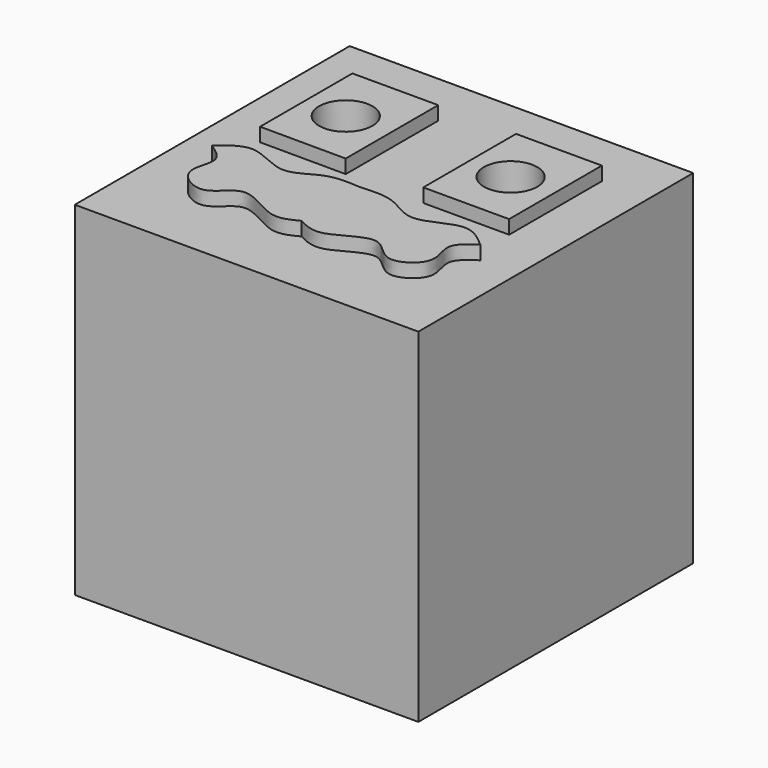
from build123d import *

# Parameters (mm, degrees)
F0_W     = 127
F0_H     = 127
F1_DEPTH = 127
F2_W     = 31.7266828096
F2_H     = 42.8551162527
F3_DEPTH = 5.08
F6_R     = 9.8569317774
F7_DEPTH = 165.1


with BuildPart() as f1:
    # F0 (on Top) → F1 (new body)
    with BuildSketch(Plane.XY):
        with Locations((0.5035735936, -0.4498548806)):
            Rectangle(F0_W, F0_H)
    extrude(amount=F1_DEPTH)

    # F2 (on face) → F3 (join)
    with BuildSketch(Plane.XY.offset(127)):
        Polygon((-45.6073767898, -0.0615948727), (-13.8806939801, -0.1739759996), (-13.8806939801, 42.5792373717), (-45.6073767898, 42.5792373717), align=None)
        with Locations((30.7511825722, 21.1516792453)):
            Rectangle(F2_W, F2_H)
        with BuildLine():
            add(Edge.make_bspline(
                [(50.1263291183, -17.9500691593), (46.7932820736, -15.0577623363), (39.6901265176, -8.8938813577), (24.3847915396, -20.6711745873), (13.3519348493, -10.6155139904), (4.7829499351, -11.2382657266), (0.5035735936, -11.5492697805)],
                knots=[0, 0, 0, 0, 0.2398997898, 0.5112575675, 0.7559205876, 1, 1, 1, 1], degree=3))
            Line((0.5035735936, -11.5492697805), (0.5035735936, -38.543947041))
            add(Edge.make_bspline(
                [(50.1263291183, -17.9500691593), (47.1905685422, -19.9119433554), (41.1553991203, -23.945052613), (48.4880810339, -35.413097395), (33.5272000122, -45.1151840091), (25.8738069034, -29.8543925404), (10.1093672502, -43.4916081263), (3.4299860195, -40.0512557962), (0.5035735936, -38.543947041)],
                knots=[0, 0, 0, 0, 0.1499027043, 0.3081614436, 0.4784483834, 0.6464885348, 0.8451173382, 1, 1, 1, 1], degree=3))
        make_face()
        with BuildLine():
            Line((0.5035735936, -38.543947041), (0.5035735936, -11.5492697805))
            add(Edge.make_bspline(
                [(-49.119181931, -17.9500691593), (-45.7861348863, -15.0577623363), (-38.6829793303, -8.8938813577), (-23.3776443523, -20.6711745873), (-12.344787662, -10.6155139904), (-3.7758027479, -11.2382657266), (0.5035735936, -11.5492697805)],
                knots=[0, 0, 0, 0, 0.2398997898, 0.5112575675, 0.7559205876, 1, 1, 1, 1], degree=3))
            add(Edge.make_bspline(
                [(-49.119181931, -17.9500691593), (-46.1834213549, -19.9119433554), (-40.148251933, -23.945052613), (-47.4809338466, -35.413097395), (-32.5200528249, -45.1151840091), (-24.8666597161, -29.8543925404), (-9.1022200629, -43.4916081263), (-2.4228388322, -40.0512557962), (0.5035735936, -38.543947041)],
                knots=[0, 0, 0, 0, 0.1499027043, 0.3081614436, 0.4784483834, 0.6464885348, 0.8451173382, 1, 1, 1, 1], degree=3))
        make_face()
    extrude(amount=F3_DEPTH)

    # F6 (on offset) → F7 (cut)
    with BuildSketch(Plane.XY.offset(284.48)):
        with Locations((-30.4733738303, 20.5938778818)):
            Circle(F6_R)
        with Locations((30.4733738303, 20.5938778818)):
            Circle(F6_R)
    extrude(amount=-F7_DEPTH, mode=Mode.SUBTRACT)


solid = f1.part
